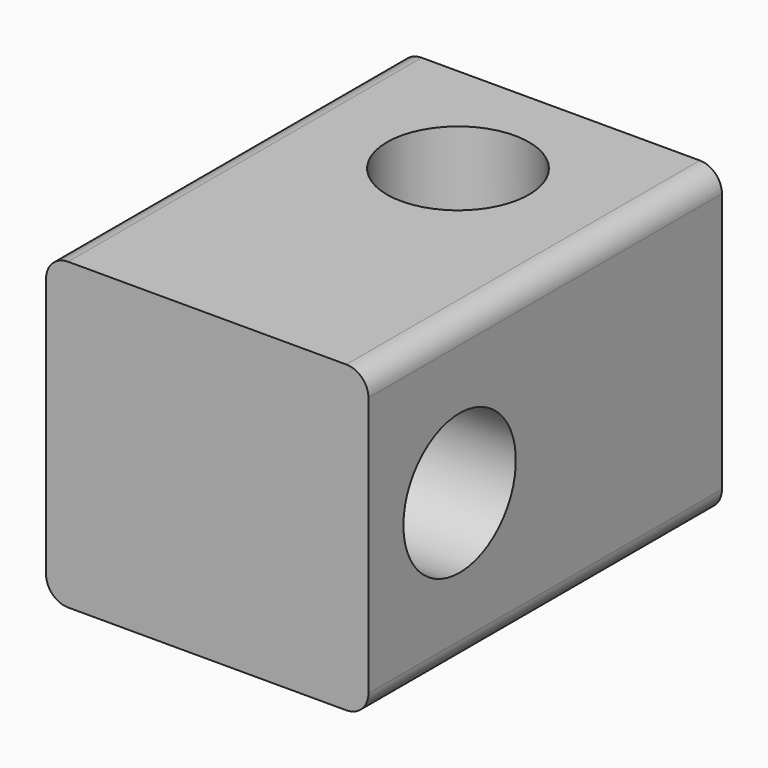
from build123d import *

# Parameters (mm, degrees)
F0_W     = 72.9447603226
F0_H     = 68.892262876
F1_DEPTH = 50
F3_R     = 5
F4_D     = 31.8
F6_D     = 32.14624


with BuildPart() as f1:
    # F0 (on Front) → F1 (new body, symmetric)
    with BuildSketch(Plane.XZ):
        Rectangle(F0_W, F0_H)
    extrude(amount=F1_DEPTH, both=True)

    # F3
    f3_edges = [f1.edges().sort_by_distance(p)[0] for p in [
        (36.47238, 0, 34.446131),
        (-36.47238, 0, 34.446131),
        (36.47238, 0, -34.446131),
        (-36.47238, 0, -34.446131),
    ]]
    fillet(f3_edges, radius=F3_R)

    # F4 (through all)
    with Locations(Plane.YZ.offset(36.4723801613)):
        with Locations((-24.1992101073, 0)):
            Hole(F4_D / 2)

    # F6 (through all)
    with Locations(Plane.XY.offset(34.446131438)):
        with Locations((0, 20.9348257631)):
            Hole(F6_D / 2)


solid = f1.part
